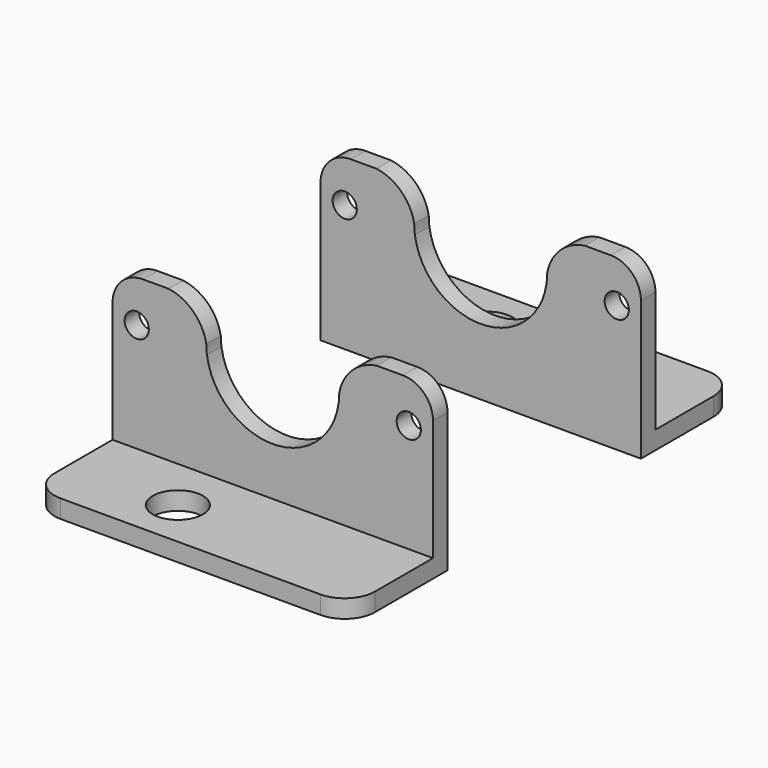
from build123d import *

# Parameters (mm, degrees)
F0_W     = 53
F0_H     = 20
F0_R     = 4.15
F1_DEPTH = 3
F2_R     = 5
F3_R     = 2
F4_DEPTH = 3
F5_R     = 5


with BuildPart() as f1:
    # F0 (on Top) → F1 (new body)
    with BuildSketch(Plane.XY):
        Rectangle(F0_W, F0_H)
        with Locations((-8.5, 2)):
            Circle(F0_R, mode=Mode.SUBTRACT)
    extrude(amount=F1_DEPTH)

    # F2
    f2_edges = [f1.edges().sort_by_distance(p)[0] for p in [
        (-26.5, 10, 1.5),
        (26.5, 10, 1.5),
    ]]
    fillet(f2_edges, radius=F2_R)

    # F3 (on face) → F4 (join)
    with BuildSketch(Plane.XZ.offset(10)):
        with BuildLine():
            Line((-26.5, 28), (-26.5, 3))
            Line((-26.5, 3), (26.5, 3))
            Line((26.5, 3), (26.5, 28))
            Line((26.5, 28), (19.266637, 28))
            Line((19.266637, 28), (17.230766, 28))
            ThreePointArc((17.230766, 28), (13.14142, 26.011422), (11, 22))
            ThreePointArc((11, 22), (10.972522, 21.222976), (10.890224, 20.449834))
            ThreePointArc((10.890224, 20.449834), (0, 11), (-10.890224, 20.449834))
            ThreePointArc((-10.890224, 20.449834), (-10.972522, 21.222976), (-11, 22))
            ThreePointArc((-11, 22), (-13.14142, 26.011422), (-17.230766, 28))
            Line((-17.230766, 28), (-19.266637, 28))
            Line((-19.266637, 28), (-26.5, 28))
        make_face()
        with Locations((-22.5, 21)):
            Circle(F3_R, mode=Mode.SUBTRACT)
        with Locations((22.5, 21)):
            Circle(F3_R, mode=Mode.SUBTRACT)
    extrude(amount=-F4_DEPTH)

    # F5
    f5_edges = [f1.edges().sort_by_distance(p)[0] for p in [
        (-26.5, -8.5, 28),
        (26.5, -8.5, 28),
    ]]
    fillet(f5_edges, radius=F5_R)


with BuildPart() as f7_1:
    # F7: instance of F1
    add(f1.part.mirror(Plane.XZ.offset(30)))


solid = Compound([f1.part, f7_1.part])
